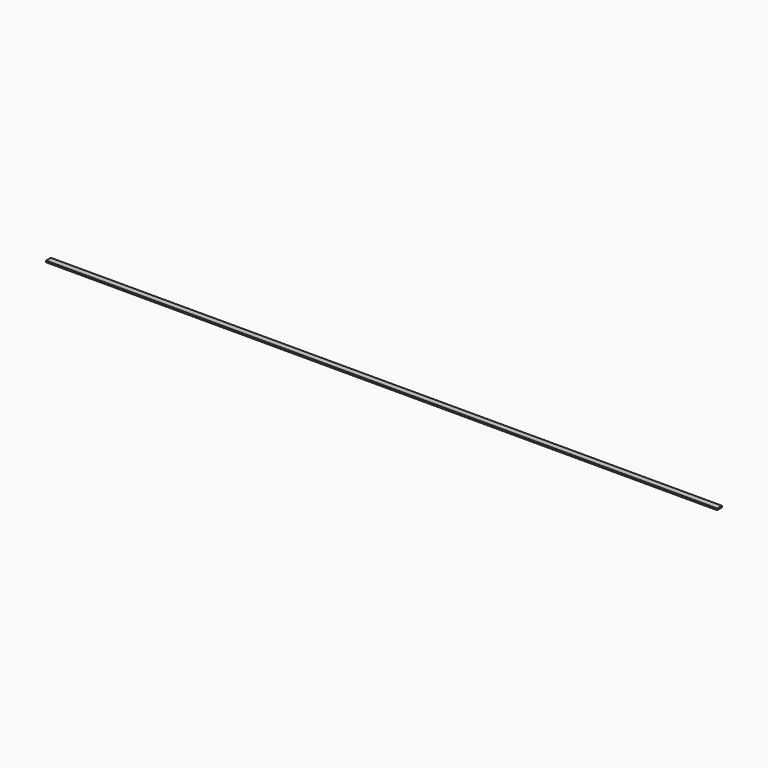
from build123d import *

# Parameters (mm, degrees)
F0_W     = 0.8
F0_H     = 90
F1_DEPTH = 0.1032
F3_ANGLE = 90


with BuildPart() as f1:
    # F0 (on Top) → F1 (new body, symmetric)
    with BuildSketch(Plane.XY):
        Rectangle(F0_W, F0_H)
    extrude(amount=F1_DEPTH, both=True)


with BuildPart() as f1_1:
    # F3: moved
    add(f1.part.rotate(Axis((0, 0, 22.021707), (0, 0, 1)), F3_ANGLE))


solid = f1_1.part
